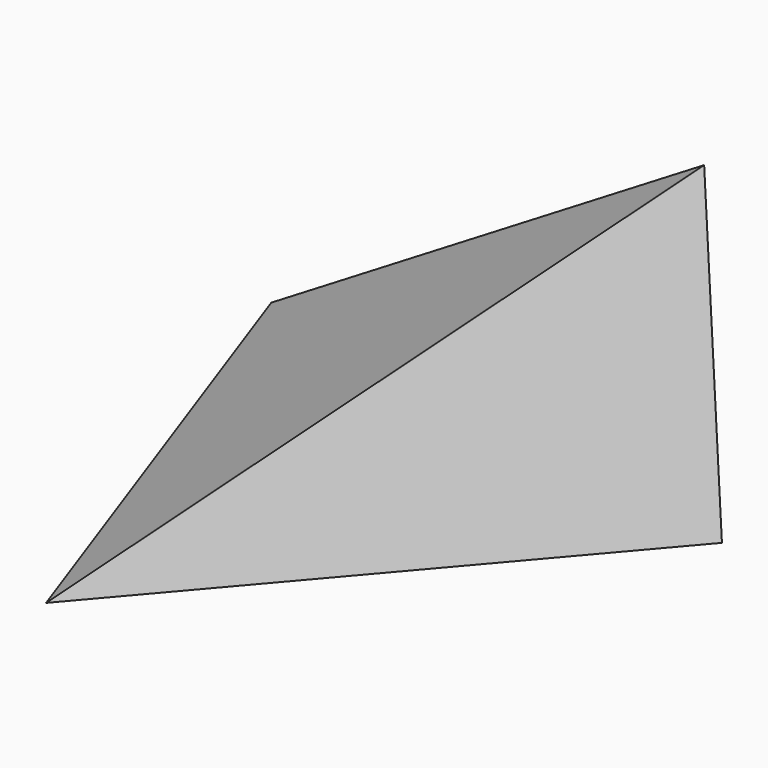
from build123d import *


with BuildPart() as f3:
    # F0 (on Top) → F3 section 0
    with BuildSketch(Plane.XY, mode=Mode.PRIVATE) as f3_s0:
        Polygon((-27.7081515495, -150.3188781886), (144.0340429544, 51.1634759605), (-116.3258914049, 99.1554022281), align=None)
    loft([f3_s0.sketch, Vertex(124.9935477972, 64.0261247754, 152.4)])


solid = f3.part
